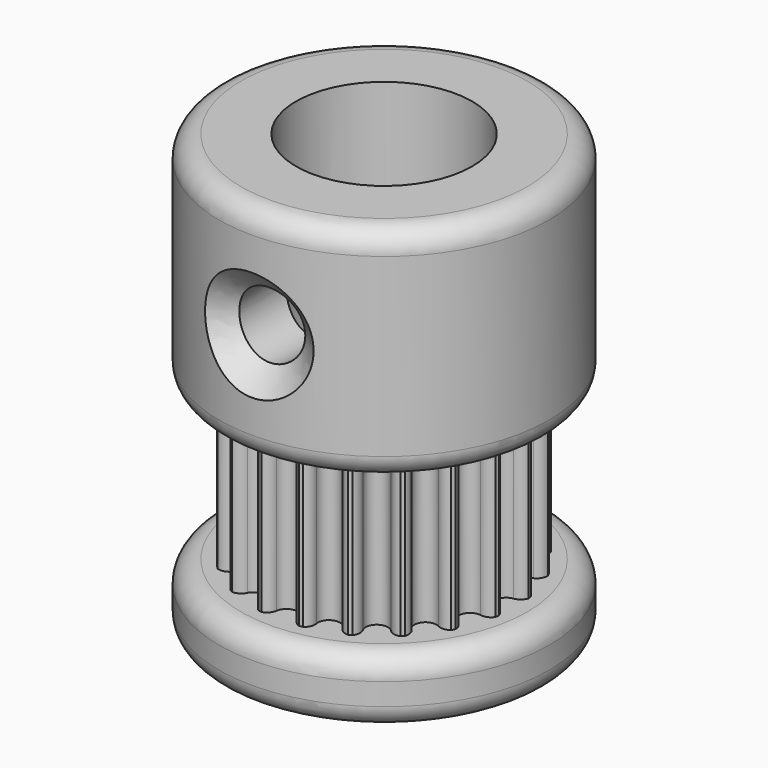
from build123d import *

# Parameters (mm, degrees)
SKETCH_R              = 5.95
PAD_DEPTH             = 3.5
POCKET_DEPTH          = 3.5
POLARPATTERN_COUNT    = 20
SKETCH002_R           = 7.5
PAD001_DEPTH          = 3
SKETCH003_R           = 7.5
PAD002_DEPTH          = 10
FILLET_R              = 1
SKETCH004_R           = 4
POCKET001_DEPTH       = 5
SKETCH005_R           = 4
POCKET002_DEPTH       = 13.5
SKETCH006_R           = 1.5
POCKET003_DEPTH       = 65.810519
POLARPATTERN001_COUNT = 2
POLARPATTERN001_ANGLE = 90
CHAMFER_SIZE          = 1


with BuildPart() as part:
    # Sketch → Pad (new body, symmetric)
    with BuildSketch(Plane.XY):
        Circle(SKETCH_R)
    extrude(amount=PAD_DEPTH, both=True)

    # Sketch001 → Pocket (cut, symmetric)
    with BuildSketch(Plane.XY):
        with BuildLine():
            ThreePointArc((-0.495406, 5.477643), (-0.697454, 5.814914), (-1.080885, 5.901838))
            ThreePointArc((1.080885, 5.901838), (0, 6), (-1.080885, 5.901838))
            ThreePointArc((1.080885, 5.901838), (0.697454, 5.814914), (0.495406, 5.477643))
            ThreePointArc((-0.495406, 5.477643), (0, 5.045268), (0.495406, 5.477643))
        make_face()
    pocket = extrude(amount=POCKET_DEPTH, both=True, mode=Mode.SUBTRACT)

    # PolarPattern: Pocket ×20 about axis
    polarpattern_axis = Axis((0, 0, 0), (0, 0, 1))
    for i in range(1, POLARPATTERN_COUNT):
        add(pocket.rotate(polarpattern_axis, i * 360 / POLARPATTERN_COUNT), mode=Mode.SUBTRACT)

    # Sketch002 (on Face2 of PolarPattern) → Pad001 (join)
    with BuildSketch(Plane(origin=(0, 0, -3.5), x_dir=(1, 0, 0), z_dir=(0, 0, -1))):
        Circle(SKETCH002_R)
    extrude(amount=PAD001_DEPTH)

    # Sketch003 → Pad002 (join)
    with BuildSketch(Plane.XY.offset(3.5)):
        Circle(SKETCH003_R)
    extrude(amount=PAD002_DEPTH)

    # Fillet
    fillet_edges = [part.edges().sort_by_distance(p)[0] for p in [
        (7.5, 0, 8.5),
        (-7.5, 0, 3.5),
        (-7.5, 0, 13.5),
        (7.5, 0, -5),
        (-7.5, 0, -3.5),
        (-7.5, 0, -6.5),
    ]]
    fillet(fillet_edges, radius=FILLET_R)

    # Sketch004 → Pocket001 (cut)
    with BuildSketch(Plane.XY):
        Circle(SKETCH004_R)
    extrude(amount=-POCKET001_DEPTH, mode=Mode.SUBTRACT)

    # Sketch005 → Pocket002 (cut)
    with BuildSketch(Plane.XY):
        Circle(SKETCH005_R)
    extrude(amount=POCKET002_DEPTH, mode=Mode.SUBTRACT)

    # Sketch006 → Pocket003 (cut, through all)
    with BuildSketch(Plane.YZ):
        with Locations((0, 8.5)):
            Circle(SKETCH006_R)
    pocket003 = extrude(amount=-POCKET003_DEPTH, mode=Mode.SUBTRACT)

    # PolarPattern001: Pocket003 ×2 about axis
    polarpattern001_axis = Axis((0, 0, 0), (0, 0, 1))
    for i in range(1, POLARPATTERN001_COUNT):
        add(pocket003.rotate(polarpattern001_axis, i * POLARPATTERN001_ANGLE / (POLARPATTERN001_COUNT - 1)), mode=Mode.SUBTRACT)

    # Chamfer
    chamfer_edges = [part.edges().sort_by_distance(p)[0] for p in [
        (-7.348469, -1.5, 8.5),
        (1.5, -7.348469, 8.5),
    ]]
    chamfer(chamfer_edges, length=CHAMFER_SIZE)


solid = part.part
